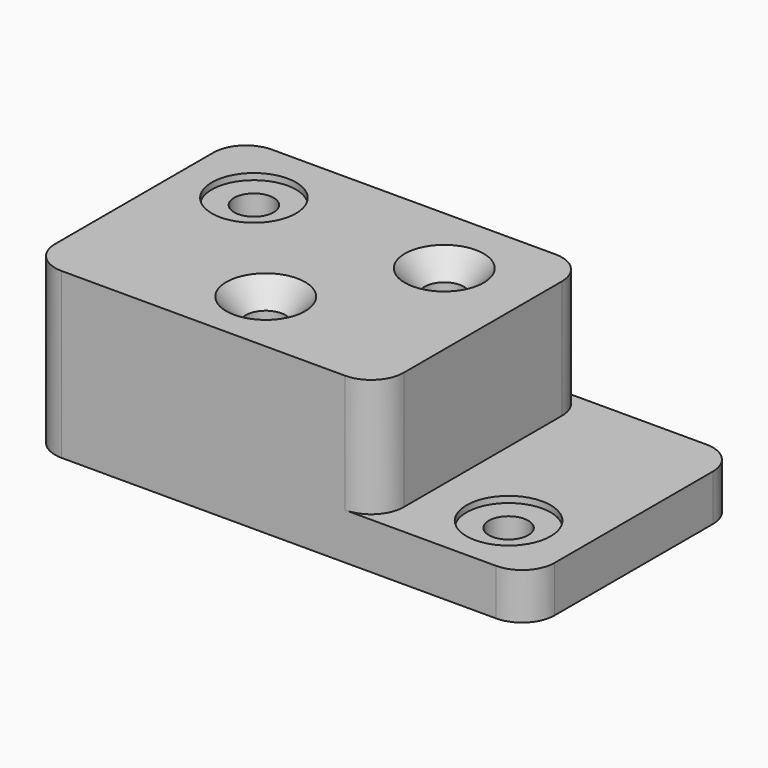
from build123d import *

# Parameters (mm, degrees)
F0_W            = 168.402
F0_H            = 127
F1_DEPTH        = 79.502
F2_R            = 15.748
F4_DEPTH        = 22.352
F5_R            = 15.748
F7_D            = 19.05
F7_CSINK_D      = 38.1
F7_CSINK_ANGLE  = 82
F8_D            = 19.05
F8_CBORE_D      = 40.64
F8_CBORE_DEPTH  = 3.048
F10_D           = 19.05
F10_CBORE_D     = 40.64
F10_CBORE_DEPTH = 3.048


with BuildPart() as f1:
    # F0 (on Top) → F1 (new body)
    with BuildSketch(Plane.XY):
        with Locations((84.201, 63.5)):
            Rectangle(F0_W, F0_H)
    extrude(amount=F1_DEPTH)

    # F2
    f2_edges = [f1.edges().sort_by_distance(p)[0] for p in [
        (168.402, 0, 39.751),
        (168.402, 127, 39.751),
        (0, 0, 39.751),
        (0, 127, 39.751),
    ]]
    fillet(f2_edges, radius=F2_R)

    # F3 (on Top) → F4 (join)
    with BuildSketch(Plane.XY):
        with BuildLine():
            ThreePointArc((168.402, 15.748), (163.7895175901, 4.6124824099), (152.654, 0))
            Line((152.654, 0), (168.402, 0))
            Line((168.402, 0), (241.3, 0))
            Line((241.3, 0), (241.3, 127))
            Line((241.3, 127), (168.402, 127))
            Line((168.402, 127), (152.654, 127))
            ThreePointArc((152.654, 127), (163.7895175901, 122.3875175901), (168.402, 111.252))
            Line((168.402, 111.252), (168.402, 15.748))
        make_face()
    extrude(amount=F4_DEPTH)

    # F5
    f5_edges = [f1.edges().sort_by_distance(p)[0] for p in [
        (241.3, 0, 11.176),
        (241.3, 127, 11.176),
    ]]
    fillet(f5_edges, radius=F5_R)

    # F7 (through all)
    with Locations(Plane.XY.offset(79.502)):
        with Locations((88.9, 31.75), (127, 91.948)):
            CounterSinkHole(F7_D / 2, F7_CSINK_D / 2, counter_sink_angle=F7_CSINK_ANGLE)

    # F8 (through all)
    with Locations(Plane.XY.offset(79.502)):
        with Locations((35.052, 91.948)):
            CounterBoreHole(F8_D / 2, F8_CBORE_D / 2, F8_CBORE_DEPTH)

    # F10 (through all)
    with Locations(Plane.XY.offset(22.352)):
        with Locations((206.248, 31.75)):
            CounterBoreHole(F10_D / 2, F10_CBORE_D / 2, F10_CBORE_DEPTH)


solid = f1.part
